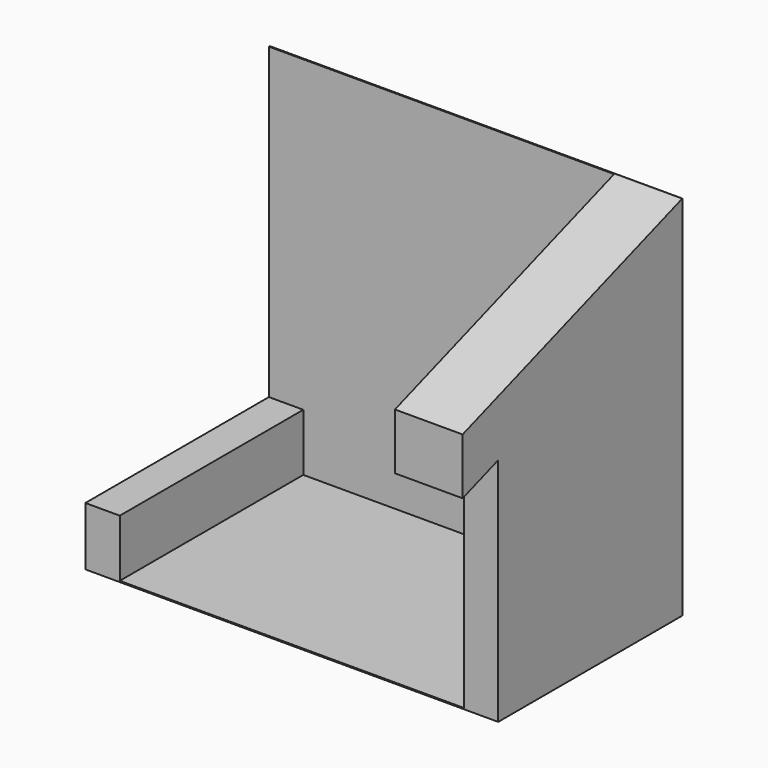
from build123d import *

# Parameters (mm, degrees)
F0_W     = 300
F0_H     = 500
F0_H_2   = 2000
F1_DEPTH = 2000
F2_W     = 3600
F2_H     = 3200
F3_DEPTH = 10
F5_DEPTH = 300
F6_W     = 590
F6_H     = 2530


with BuildPart() as f1:
    # F0 (on Front) → F1 (new body)
    with BuildSketch(Plane.XZ):
        with Locations((-3450, 250)):
            Rectangle(F0_W, F0_H)
        Polygon((-3300, 0), (-3600, 0), (-3600, -10), (0, -10), (0, 0), (-300, 0), align=None)
        with Locations((-150, 1000)):
            Rectangle(F0_W, F0_H_2)
    extrude(amount=-F1_DEPTH)

    # F2 (on face) → F3 (join)
    with BuildSketch(Plane(origin=(0, 2000, 0), x_dir=(-1, 0, 0), z_dir=(0, 1, 0))):
        with Locations((1800, 1590)):
            Rectangle(F2_W, F2_H)
    extrude(amount=F3_DEPTH)

    # F4 (on face) → F5 (join)
    with BuildSketch(Plane.YZ):
        Polygon((2000, 2700), (0, 2000), (2000, 2000), align=None)
    extrude(amount=-F5_DEPTH)

    # F7: sweep along a path in F7_path
    with BuildLine(Plane(origin=(0, 2000, 3190), x_dir=(0, 0, 1), z_dir=(0, -1, 0))) as f7_path:
        Line((0, 0), (-490, 0))
    # F6 (on face) → F7 (sweep)
    with BuildSketch(Plane(origin=(0, -623.6080178174, 1781.7371937639), x_dir=(1, 0, 0), z_dir=(0, -0.3303504247, 0.9438583564))):
        with Locations((-295, 1514.6628594979)):
            Rectangle(F6_W, F6_H)
    sweep(path=f7_path.line)


solid = f1.part
